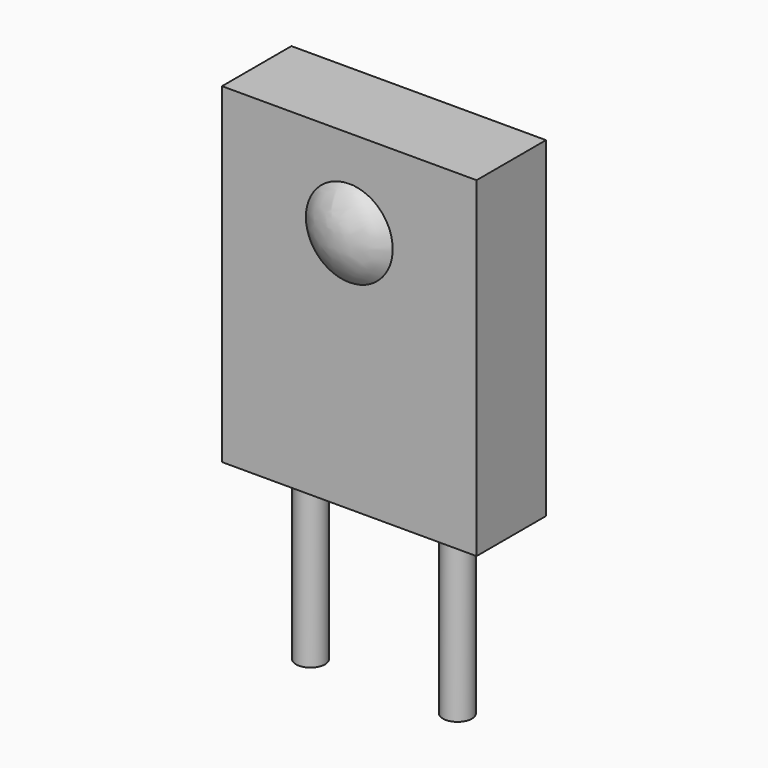
from build123d import *

# Parameters (mm, degrees)
SKETCH_W         = 4.4
SKETCH_H         = 1.5
PAD_DEPTH        = 5.72
REVOLUTION_ANGLE = 90
SKETCH003_W      = 3.551188
SKETCH003_H      = 0.835499
PAD001_DEPTH     = 0.001
SKETCH002_R      = 0.25
PAD002_DEPTH     = 3


with BuildPart() as body:
    # Sketch → Pad (new body)
    with BuildSketch(Plane.XY):
        Rectangle(SKETCH_W, SKETCH_H)
    extrude(amount=PAD_DEPTH)

    # Sketch001 → Revolution (revolve)
    with BuildSketch(Plane.XZ.offset(0.75)):
        with BuildLine():
            ThreePointArc((0, 4.95), (-0.75, 4.2), (0, 3.45))
            Line((0, 4.95), (0, 3.45))
        make_face()
    revolve(axis=Axis((0, 0, 0), (0, 0, 1)), revolution_arc=REVOLUTION_ANGLE)


with BuildPart() as body001:
    # Sketch003 → Pad001 (new body)
    with BuildSketch(Plane.XY):
        with Locations((0.075594, -0.01775)):
            Rectangle(SKETCH003_W, SKETCH003_H)
    extrude(amount=PAD001_DEPTH)

    # Sketch002 → Pad002 (join)
    with BuildSketch(Plane.XY):
        with Locations((-1.27, 0)):
            Circle(SKETCH002_R)
        with Locations((1.27, 0)):
            Circle(SKETCH002_R)
    extrude(amount=-PAD002_DEPTH)


solid = Compound([body.part, body001.part])
